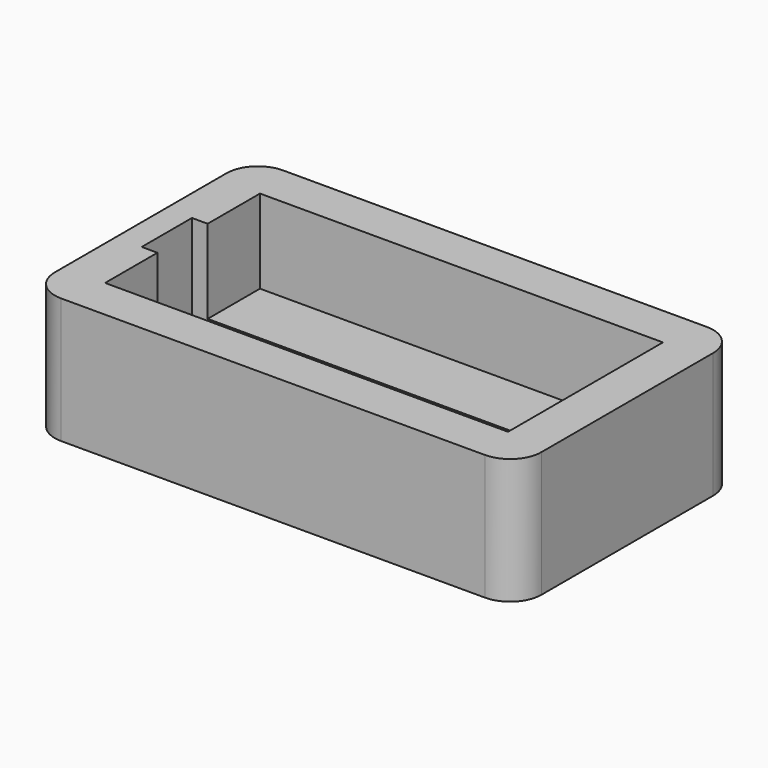
from build123d import *

# Parameters (mm, degrees)
F0_W     = 46.5
F0_H     = 26.5
F0_W_2   = 38.5
F0_H_2   = 18.5
F1_DEPTH = 8
F2_W     = 46.5
F2_H     = 26.5
F3_DEPTH = 4
F4_W     = 40
F4_H     = 9.5
F5_DEPTH = 3
F6_W     = 23
F6_H     = 6
F7_DEPTH = 2.5
F8_R     = 3


with BuildPart() as f1:
    # F0 (on Top) → F1 (new body)
    with BuildSketch(Plane.XY):
        Rectangle(F0_W, F0_H)
        Rectangle(F0_W_2, F0_H_2, mode=Mode.SUBTRACT)
    extrude(amount=F1_DEPTH)

    # F2 (on face) → F3 (join)
    with BuildSketch(Plane(origin=(0, 0, 0), x_dir=(1, 0, 0), z_dir=(0, 0, -1))):
        Rectangle(F2_W, F2_H)
    extrude(amount=F3_DEPTH)

    # F4 (on Front) → F5 (cut, symmetric)
    with BuildSketch(Plane.XZ):
        with Locations((-0.75, 3.25)):
            Rectangle(F4_W, F4_H)
    extrude(amount=F5_DEPTH, both=True, mode=Mode.SUBTRACT)

    # F6 (on face) → F7 (cut, through all)
    with BuildSketch(Plane.XY.offset(-1.5)):
        with Locations((3.75, 0)):
            Rectangle(F6_W, F6_H)
    extrude(amount=-F7_DEPTH, mode=Mode.SUBTRACT)

    # F8
    f8_edges = [f1.edges().sort_by_distance(p)[0] for p in [
        (-23.25, -13.25, 2),
        (23.25, -13.25, 2),
        (-23.25, 13.25, 2),
        (23.25, 13.25, 2),
    ]]
    fillet(f8_edges, radius=F8_R)


solid = f1.part
